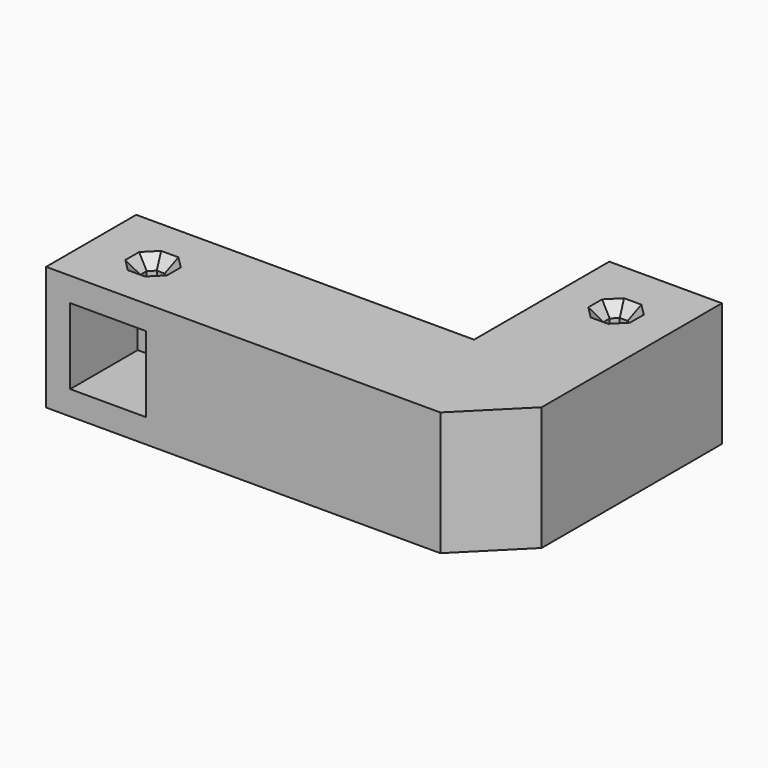
from build123d import *

# Parameters (mm, degrees)
PAD_DEPTH       = 22
SKETCH001_W     = 13.45
SKETCH001_H     = 13.45
POCKET_DEPTH    = 15
SKETCH002_W     = 13.45
SKETCH002_H     = 13.45
POCKET001_DEPTH = 15
CHAMFER_SIZE    = 10
POCKET002_DEPTH = 5
CHAMFER001_SIZE = 2


with BuildPart() as part:
    # Sketch → Pad (new body)
    with BuildSketch(Plane.XY):
        Polygon((0, 30), (0, 0), (-60, 0), (-60, -20), (20, -20), (20, 30), align=None)
    extrude(amount=PAD_DEPTH)

    # Sketch001 (on Face1 of Pad) → Pocket (cut)
    with BuildSketch(Plane(origin=(0, 0, 0), x_dir=(0, -1, 0), z_dir=(-1, 0, 0))):
        with Locations((-19, 11)):
            Rectangle(SKETCH001_W, SKETCH001_H)
    extrude(amount=-POCKET_DEPTH, mode=Mode.SUBTRACT)

    # Sketch002 (on Face12 of Pocket) → Pocket001 (cut)
    with BuildSketch(Plane.XZ.offset(20)):
        with Locations((-49, 11)):
            Rectangle(SKETCH002_W, SKETCH002_H)
    extrude(amount=-POCKET001_DEPTH, mode=Mode.SUBTRACT)

    # Chamfer
    chamfer_edges = [part.edges().sort_by_distance(p)[0] for p in [
        (20, -20, 11),
    ]]
    chamfer(chamfer_edges, length=CHAMFER_SIZE)

    # Sketch003 (on Face9 of Chamfer) → Pocket002 (cut)
    with BuildSketch(Plane.XY.offset(22)):
        Polygon((9.295837, 17.3), (10.704163, 17.3), (11.7, 18.295837), (11.7, 19.704163), (10.704163, 20.7), (9.295837, 20.7), (8.3, 19.704163), (8.3, 18.295837), align=None)
        Polygon((-47.3, -10.704163), (-47.3, -9.295837), (-48.295837, -8.3), (-49.704163, -8.3), (-50.7, -9.295837), (-50.7, -10.704163), (-49.704163, -11.7), (-48.295837, -11.7), align=None)
    extrude(amount=-POCKET002_DEPTH, mode=Mode.SUBTRACT)

    # Chamfer001
    chamfer001_edges = [part.edges().sort_by_distance(p)[0] for p in [
        (-50.7, -10, 22),
        (-50.202082, -8.797918, 22),
        (-49, -8.3, 22),
        (-47.797918, -8.797918, 22),
        (-47.3, -10, 22),
        (-47.797918, -11.202082, 22),
        (-49, -11.7, 22),
        (-50.202082, -11.202082, 22),
        (8.3, 19, 22),
        (8.797918, 20.202082, 22),
        (10, 20.7, 22),
        (11.202082, 20.202082, 22),
        (11.7, 19, 22),
        (11.202082, 17.797918, 22),
        (10, 17.3, 22),
        (8.797918, 17.797918, 22),
    ]]
    chamfer(chamfer001_edges, length=CHAMFER001_SIZE)


solid = part.part
